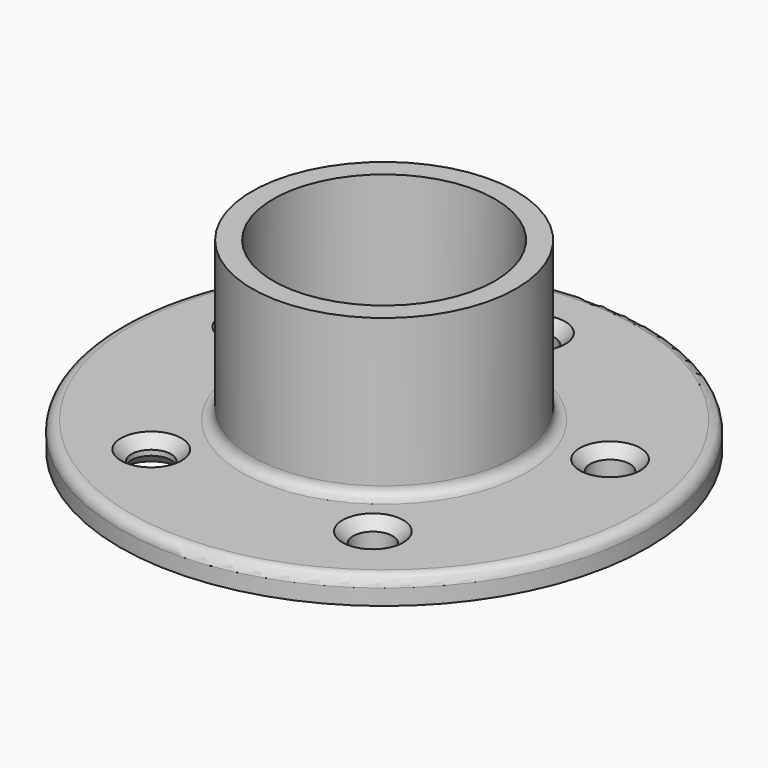
from build123d import *

# Parameters (mm, degrees)
F0_R     = 63.5
F0_R_2   = 4.7625
F0_R_3   = 26.67
F1_DEPTH = 6.35
F2_R     = 31.75
F2_R_2   = 26.67
F3_DEPTH = 38.1
F4_R     = 2.54
F5_SIZE  = 2.54


with BuildPart() as f1:
    # F0 (on Top) → F1 (new body)
    with BuildSketch(Plane.XY):
        Circle(F0_R)
        with Locations((-26.654833, -36.68723)):
            Circle(F0_R_2, mode=Mode.SUBTRACT)
        with Locations((26.654833, -36.68723)):
            Circle(F0_R_2, mode=Mode.SUBTRACT)
        with Locations((-43.128426, 14.013275)):
            Circle(F0_R_2, mode=Mode.SUBTRACT)
        Circle(F0_R_3, mode=Mode.SUBTRACT)
        with Locations((43.128426, 14.013275)):
            Circle(F0_R_2, mode=Mode.SUBTRACT)
        with Locations((0, 45.34791)):
            Circle(F0_R_2, mode=Mode.SUBTRACT)
    extrude(amount=F1_DEPTH)

    # F2 (on face) → F3 (join)
    with BuildSketch(Plane.XY.offset(6.35)):
        Circle(F2_R)
        Circle(F2_R_2, mode=Mode.SUBTRACT)
    extrude(amount=F3_DEPTH)

    # F4
    f4_edges = [f1.edges().sort_by_distance(p)[0] for p in [
        (-31.75, 0, 6.35),
        (-63.5, 0, 6.35),
    ]]
    fillet(f4_edges, radius=F4_R)

    # F5
    f5_edges = [f1.edges().sort_by_distance(p)[0] for p in [
        (-47.890926, 14.013275, 6.35),
        (-21.892333, -36.68723, 3.175),
        (-31.417333, -36.68723, 0),
        (-31.417333, -36.68723, 6.35),
        (21.892333, -36.68723, 6.35),
        (38.365926, 14.013275, 6.35),
        (-4.7625, 45.34791, 6.35),
    ]]
    chamfer(f5_edges, length=F5_SIZE)


solid = f1.part
